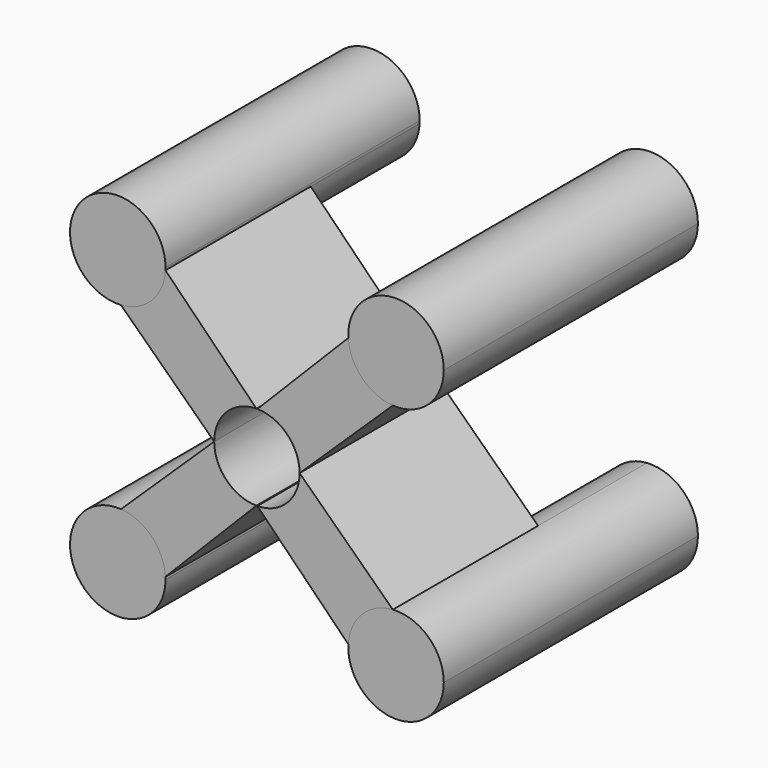
from build123d import *

# Parameters (mm, degrees)
F1_DEPTH = 88.9
F2_DEPTH = 50.8


with BuildPart() as f1:
    # F0 (on Front) → F1 (new body)
    with BuildSketch(Plane.XZ):
        with BuildLine():
            ThreePointArc((75.619888, 44.428689), (79.457821, 35.77043), (88.070601, 31.831498))
            ThreePointArc((88.070601, 31.831498), (98.087449, 35.405593), (102.320534, 45.162252))
            ThreePointArc((102.320534, 45.162252), (88.593214, 58.517613), (75.619888, 44.428689))
        make_face()
        with BuildLine():
            ThreePointArc((11.988504, 31.831498), (20.601284, 35.77043), (24.439217, 44.428689))
            ThreePointArc((24.439217, 44.428689), (24.454331, 44.795332), (24.459371, 45.162252))
            ThreePointArc((24.459371, 45.162252), (1.342311, 54.289568), (11.988504, 31.831498))
        make_face()
        with BuildLine():
            ThreePointArc((24.459371, -31.793552), (24.454331, -31.426632), (24.439217, -31.059989))
            ThreePointArc((24.439217, -31.059989), (20.601284, -22.40173), (11.988504, -18.462797))
            ThreePointArc((11.988504, -18.462797), (1.342311, -40.920867), (24.459371, -31.793552))
        make_face()
        with BuildLine():
            ThreePointArc((102.320534, -31.793552), (98.087449, -22.036892), (88.070601, -18.462797))
            ThreePointArc((88.070601, -18.462797), (79.457821, -22.40173), (75.619888, -31.059989))
            ThreePointArc((75.619888, -31.059989), (88.593214, -45.148913), (102.320534, -31.793552))
        make_face()
    extrude(amount=-F1_DEPTH)


with BuildPart() as f2:
    # F0 (on Front) → F2 (new body)
    with BuildSketch(Plane.XZ):
        with BuildLine():
            ThreePointArc((50.169352, 18.636803), (58.531074, 15.087017), (61.982823, 6.68435))
            Line((61.982823, 6.68435), (88.070601, 31.831498))
            ThreePointArc((88.070601, 31.831498), (79.457821, 35.77043), (75.619888, 44.428689))
            Line((75.619888, 44.428689), (50.169352, 18.636803))
        make_face()
        with BuildLine():
            Line((88.070601, -18.462797), (61.982823, 6.68435))
            ThreePointArc((61.982823, 6.68435), (58.531074, -1.718317), (50.169352, -5.268103))
            Line((50.169352, -5.268103), (75.619888, -31.059989))
            ThreePointArc((75.619888, -31.059989), (79.457821, -22.40173), (88.070601, -18.462797))
        make_face()
        with BuildLine():
            Line((24.439217, -31.059989), (49.889753, -5.268103))
            ThreePointArc((49.889753, -5.268103), (41.528031, -1.718317), (38.076282, 6.68435))
            Line((38.076282, 6.68435), (11.988504, -18.462797))
            ThreePointArc((11.988504, -18.462797), (20.601284, -22.40173), (24.439217, -31.059989))
        make_face()
        with BuildLine():
            ThreePointArc((38.076282, 6.68435), (41.528031, 15.087017), (49.889753, 18.636803))
            Line((49.889753, 18.636803), (24.439217, 44.428689))
            ThreePointArc((24.439217, 44.428689), (20.601284, 35.77043), (11.988504, 31.831498))
            Line((11.988504, 31.831498), (38.076282, 6.68435))
        make_face()
    extrude(amount=-F2_DEPTH)


solid = Compound([f1.part, f2.part])
